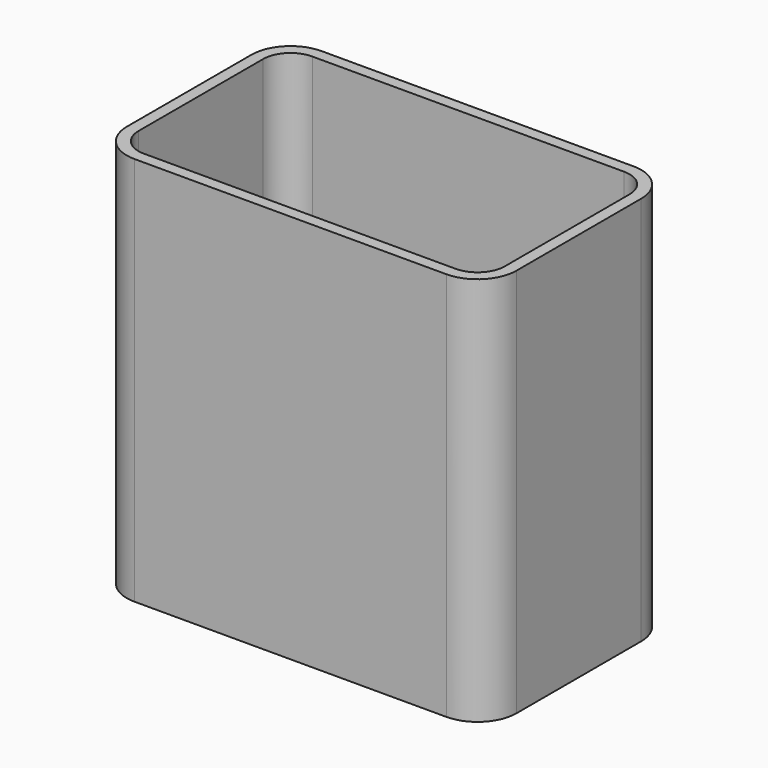
from build123d import *

# Parameters (mm, degrees)
F1_DEPTH = 3
F3_DEPTH = 100
F4_DEPTH = 100


with BuildPart() as f1:
    # F0 (on Top) → F1 (new body)
    with BuildSketch(Plane.XY):
        with BuildLine():
            ThreePointArc((50, 20), (47.071068, 27.071068), (40, 30))
            Line((40, 30), (-40, 30))
            ThreePointArc((-40, 30), (-47.071068, 27.071068), (-50, 20))
            Line((-50, 20), (-50, -20))
            ThreePointArc((-50, -20), (-47.071068, -27.071068), (-40, -30))
            Line((-40, -30), (40, -30))
            ThreePointArc((40, -30), (47.071068, -27.071068), (50, -20))
            Line((50, -20), (50, 20))
        make_face()
    extrude(amount=F1_DEPTH)

    # F0 (on Top) → F3 (join)
    with BuildSketch(Plane.XY):
        with BuildLine():
            ThreePointArc((50, 20), (47.071068, 27.071068), (40, 30))
            Line((40, 30), (-40, 30))
            ThreePointArc((-40, 30), (-47.071068, 27.071068), (-50, 20))
            Line((-50, 20), (-50, -20))
            ThreePointArc((-50, -20), (-47.071068, -27.071068), (-40, -30))
            Line((-40, -30), (40, -30))
            ThreePointArc((40, -30), (47.071068, -27.071068), (50, -20))
            Line((50, -20), (50, 20))
        make_face()
    extrude(amount=F3_DEPTH)

    # F2 (on face) → F4 (cut)
    with BuildSketch(Plane.XY.offset(3)):
        with BuildLine():
            Line((-47, 20), (-47, -20))
            ThreePointArc((-47, -20), (-44.949747, -24.949747), (-40, -27))
            Line((-40, -27), (40, -27))
            ThreePointArc((40, -27), (44.949747, -24.949747), (47, -20))
            Line((47, -20), (47, 20))
            ThreePointArc((47, 20), (44.949747, 24.949747), (40, 27))
            Line((40, 27), (-40, 27))
            ThreePointArc((-40, 27), (-44.949747, 24.949747), (-47, 20))
        make_face()
    extrude(amount=F4_DEPTH, mode=Mode.SUBTRACT)


solid = f1.part
